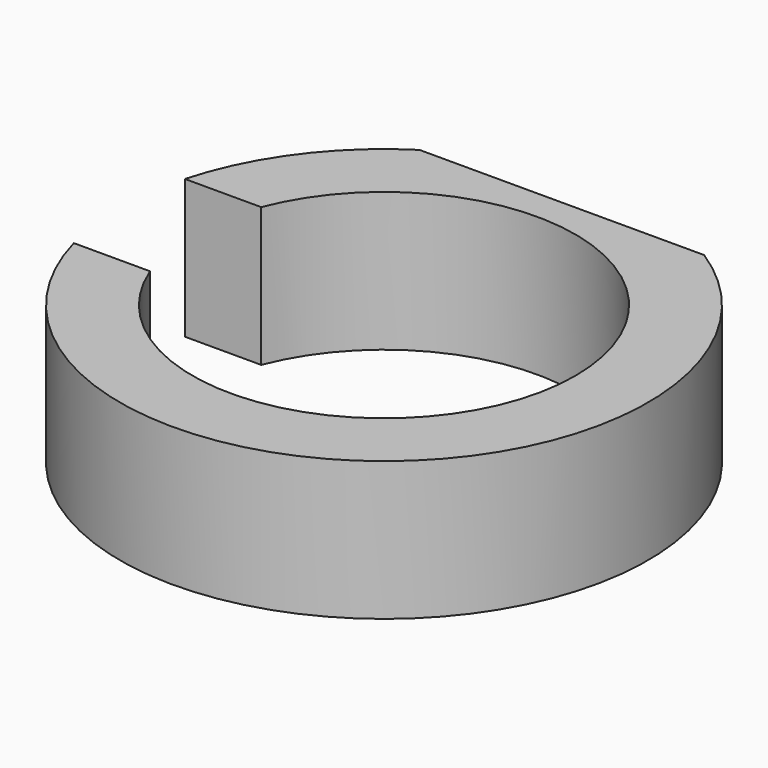
from build123d import *

# Parameters (mm, degrees)
F1_DEPTH = 12.7


with BuildPart() as f1:
    # F0 (on Top) → F1 (new body)
    with BuildSketch(Plane.XY):
        with BuildLine():
            ThreePointArc((-16.307928, 6.35), (17.5006, 0), (-16.307928, -6.35))
            Line((-16.307928, -6.35), (-23.279485, -6.35))
            ThreePointArc((-23.279485, -6.35), (14.288778, -19.444478), (13.013627, 20.32))
            Line((13.013627, 20.32), (-13.013627, 20.32))
            ThreePointArc((-13.013627, 20.32), (-19.444478, 14.288778), (-23.279485, 6.35))
            Line((-23.279485, 6.35), (-16.307928, 6.35))
        make_face()
    extrude(amount=F1_DEPTH)


solid = f1.part
